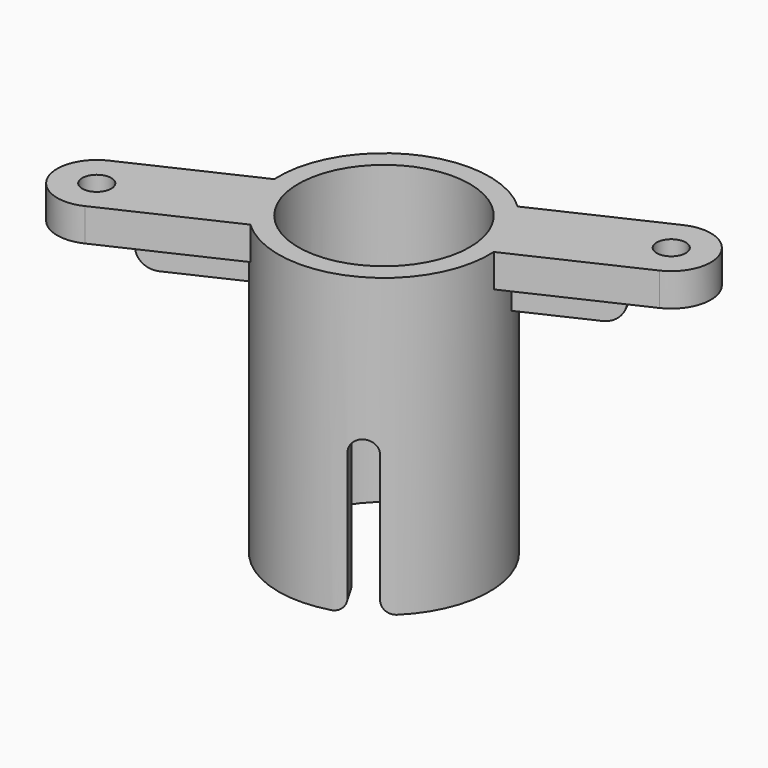
from build123d import *

# Parameters (mm, degrees)
CYLINDER024_R             = 13
CYLINDER024_DEPTH         = 45
CYLINDER026_R             = 1.95
CYLINDER026_DEPTH         = 10
BOX002_W                  = 21.4
BOX002_H                  = 3.9
BOX002_DEPTH              = 10
FUSION013_PLACEMENT_ANGLE = 90
ARRAY011_COUNT            = 3
CYLINDER028_R             = 2.2
CYLINDER028_DEPTH         = 5
ARRAY013_X_COUNT          = 2
ARRAY013_X_PITCH          = 70
BOX003_W                  = 70
BOX003_H                  = 12
BOX003_DEPTH              = 5
BOX007_W                  = 60
BOX007_H                  = 3
BOX007_DEPTH              = 5
FILLET003_R               = 3
CYLINDER027_R             = 6
CYLINDER027_DEPTH         = 5
ARRAY012_X_COUNT          = 2
ARRAY012_X_PITCH          = 70
CYLINDER025_R             = 16
CYLINDER025_DEPTH         = 45
FUSION016_PLACEMENT_ANGLE = 25
FILLET005_R               = 2


with BuildPart() as internal_cylinder:
    # Cylinder024 → Cylinder024 (new body)
    with BuildSketch(Plane.XY.offset(5)):
        Circle(CYLINDER024_R)
    extrude(amount=CYLINDER024_DEPTH)


with BuildPart() as hole_side001:
    # Cylinder026 → Cylinder026 (new body)
    with BuildSketch(Plane(origin=(21.4, 0, 0), x_dir=(1, 0, 0), z_dir=(0, 0, 1))):
        Circle(CYLINDER026_R)
    extrude(amount=CYLINDER026_DEPTH)


with BuildPart() as middle_hole_fusion:
    # Box002 → Box002 (new body)
    with BuildSketch(Plane(origin=(0, -1.95, 0), x_dir=(1, 0, 0), z_dir=(0, 0, 1))):
        with Locations((10.7, 1.95)):
            Rectangle(BOX002_W, BOX002_H)
    extrude(amount=BOX002_DEPTH)

    # Fusion013: union hole side001
    add(hole_side001.part)


with BuildPart() as middle_hole_fusion_1:
    # Fusion013 placement: moved
    add(middle_hole_fusion.part.moved(Location((-6, 0, 0))).rotate(Axis((-6, 0, 0), (0, -1, 0)), FUSION013_PLACEMENT_ANGLE))

    # Array011: middle hole fusion ×3 about axis
    array011_axis = Axis((0, 0, 0), (0, 0, 1))


with BuildPart() as middle_hole_fusion_2:
    add(middle_hole_fusion_1.part)
    for i in range(1, ARRAY011_COUNT):
        add(middle_hole_fusion_1.part.rotate(array011_axis, i * 360 / ARRAY011_COUNT))


with BuildPart() as middle_hole_fusion_3:
    # Array011 placement: moved
    add(middle_hole_fusion_2.part.moved(Location((0, 0, 5))))

    # Fusion014: union internal cylinder
    add(internal_cylinder.part)


with BuildPart() as spring_plate_end_array001:
    # Cylinder028 → Cylinder028 (new body)
    with BuildSketch(Plane.XY):
        Circle(CYLINDER028_R)
    extrude(amount=CYLINDER028_DEPTH)

    # Array013 X: spring plate end array001 ×2


with BuildPart() as spring_plate_end_array001_1:
    add(spring_plate_end_array001.part)
    with Locations(*[(i * ARRAY013_X_PITCH, 0, 0) for i in range(1, ARRAY013_X_COUNT)]):
        add(spring_plate_end_array001.part)


with BuildPart() as spring_plate_cube:
    # Box003 → Box003 (new body)
    with BuildSketch(Plane(origin=(0, -6, 0), x_dir=(1, 0, 0), z_dir=(0, 0, 1))):
        with Locations((35, 6)):
            Rectangle(BOX003_W, BOX003_H)
    extrude(amount=BOX003_DEPTH)


with BuildPart() as fillet003:
    # Box007 → Box007 (new body)
    with BuildSketch(Plane(origin=(5, -1.5, -5), x_dir=(1, 0, 0), z_dir=(0, 0, 1))):
        with Locations((30, 1.5)):
            Rectangle(BOX007_W, BOX007_H)
    extrude(amount=BOX007_DEPTH)

    # Fillet003
    fillet003_edges = [fillet003.edges().sort_by_distance(p)[0] for p in [
        (5, 0, -5),
        (65, 0, -5),
    ]]
    fillet(fillet003_edges, radius=FILLET003_R)


with BuildPart() as spring_attachment_plate:
    # Cylinder027 → Cylinder027 (new body)
    with BuildSketch(Plane.XY):
        Circle(CYLINDER027_R)
    extrude(amount=CYLINDER027_DEPTH)

    # Array012 X: spring attachment plate ×2


with BuildPart() as spring_attachment_plate_1:
    add(spring_attachment_plate.part)
    with Locations(*[(i * ARRAY012_X_PITCH, 0, 0) for i in range(1, ARRAY012_X_COUNT)]):
        add(spring_attachment_plate.part)

    # Fusion015: union spring plate cube, Fillet003
    add(spring_plate_cube.part)
    add(fillet003.part)

    # Cut009: cut spring plate end array001
    add(spring_plate_end_array001_1.part, mode=Mode.SUBTRACT)


with BuildPart() as spring_attachment_plate_2:
    # Cut009 placement: moved
    add(spring_attachment_plate_1.part.moved(Location((-35, 0, 45))))


with BuildPart() as middle_cut_fillet:
    # Cylinder025 → Cylinder025 (new body)
    with BuildSketch(Plane.XY.offset(5)):
        Circle(CYLINDER025_R)
    extrude(amount=CYLINDER025_DEPTH)

    # Fusion016: union spring attachment plate
    add(spring_attachment_plate_2.part)


with BuildPart() as middle_cut_fillet_1:
    # Fusion016 placement: moved
    add(middle_cut_fillet.part.rotate(Axis((0, 0, 0), (0, 0, 1)), FUSION016_PLACEMENT_ANGLE))

    # Cut008: cut middle hole fusion
    add(middle_hole_fusion_3.part, mode=Mode.SUBTRACT)

    # Fillet005
    fillet005_edges = [middle_cut_fillet_1.edges().sort_by_distance(p)[0] for p in [
        (8.872161, -11.467033, 5),
        (8.872161, 11.467033, 5),
        (5.494662, -13.417033, 5),
        (-14.366823, -1.95, 5),
        (-14.366823, 1.95, 5),
        (5.494662, 13.417033, 5),
    ]]
    fillet(fillet005_edges, radius=FILLET005_R)


solid = middle_cut_fillet_1.part
